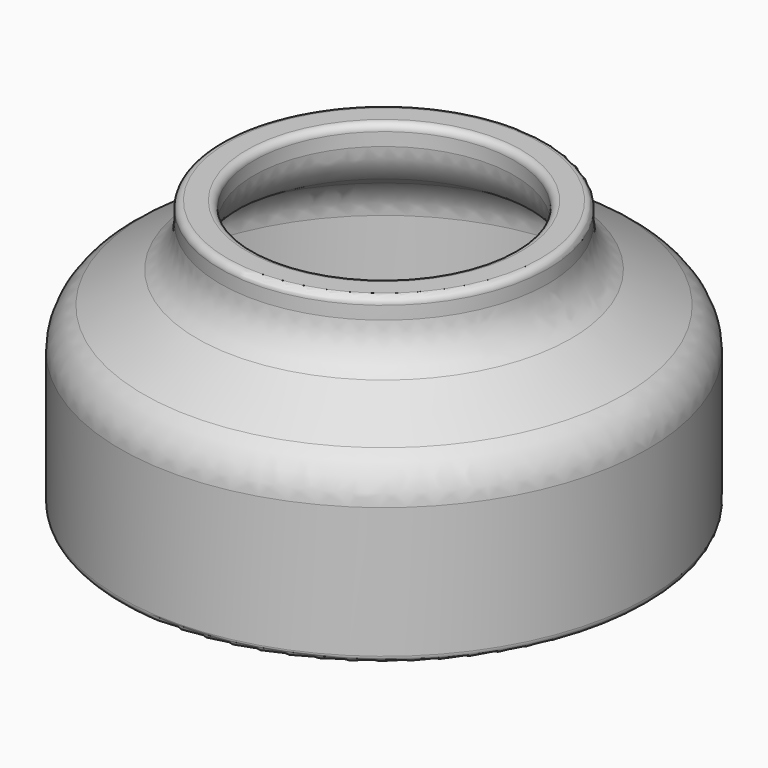
from build123d import *

# Parameters (mm, degrees)
F2_R = 5.08
F3_R = 0.762


with BuildPart() as f1:
    # F0 (on Front) → F1 (revolve)
    with BuildSketch(Plane.XZ):
        Polygon((17.653, 29.21), (14.0335, 29.21), (14.0335, 24.13), (24.8285, 17.78), (24.8285, 0), (28.448, 0), (28.448, 17.78), (17.653, 24.13), align=None)
    revolve(axis=Axis((0, 0, -0.587802), (0, 0, -1)))

    # F2
    f2_edges = [f1.edges().sort_by_distance(p)[0] for p in [
        (-28.448, 0, 17.78),
        (-17.653, 0, 24.13),
        (-24.8285, 0, 17.78),
        (-14.0335, 0, 24.13),
        (19.431, 0, 20.955),
    ]]
    fillet(f2_edges, radius=F2_R)

    # F3
    f3_edges = [f1.edges().sort_by_distance(p)[0] for p in [
        (-17.653, 0, 29.21),
        (-14.0335, 0, 29.21),
        (-28.448, 0, 0),
        (-24.8285, 0, 0),
    ]]
    fillet(f3_edges, radius=F3_R)


solid = f1.part
